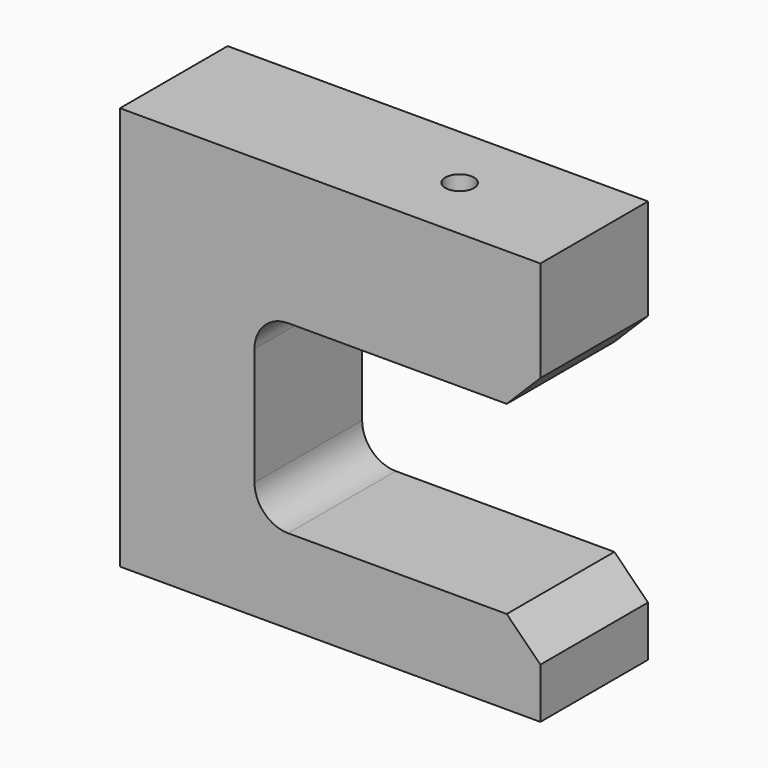
from build123d import *

# Parameters (mm, degrees)
F1_DEPTH = 25.4
F2_R     = 6.35
F3_SIZE  = 6.35
F5_D     = 5.4102
F5_DEPTH = 19.05
F5_TIP   = 1.6253880605


with BuildPart() as f1:
    # F0 (on Front) → F1 (new body)
    with BuildSketch(Plane.XZ):
        Polygon((41.275, 42.8625), (-38.1, 42.8625), (-38.1, -33.3375), (41.275, -33.3375), (41.275, -17.4625), (-12.7, -17.4625), (-12.7, 17.4625), (41.275, 17.4625), align=None)
    extrude(amount=F1_DEPTH)

    # F2
    f2_edges = [f1.edges().sort_by_distance(p)[0] for p in [
        (-12.7, -12.7, 17.4625),
        (-12.7, -12.7, -17.4625),
    ]]
    fillet(f2_edges, radius=F2_R)

    # F3
    f3_edges = [f1.edges().sort_by_distance(p)[0] for p in [
        (41.275, -12.7, -17.4625),
        (41.275, -12.7, 17.4625),
    ]]
    chamfer(f3_edges, length=F3_SIZE)

    # F5
    with Locations(Plane.XY.offset(42.8625)):
        with Locations((15.875, -12.7)):
            Hole(F5_D / 2, depth=F5_DEPTH)
            with Locations((0, 0, -(F5_DEPTH + F5_TIP / 2))):  # 118° drill point
                Cone(0, F5_D / 2, F5_TIP, mode=Mode.SUBTRACT)


solid = f1.part
